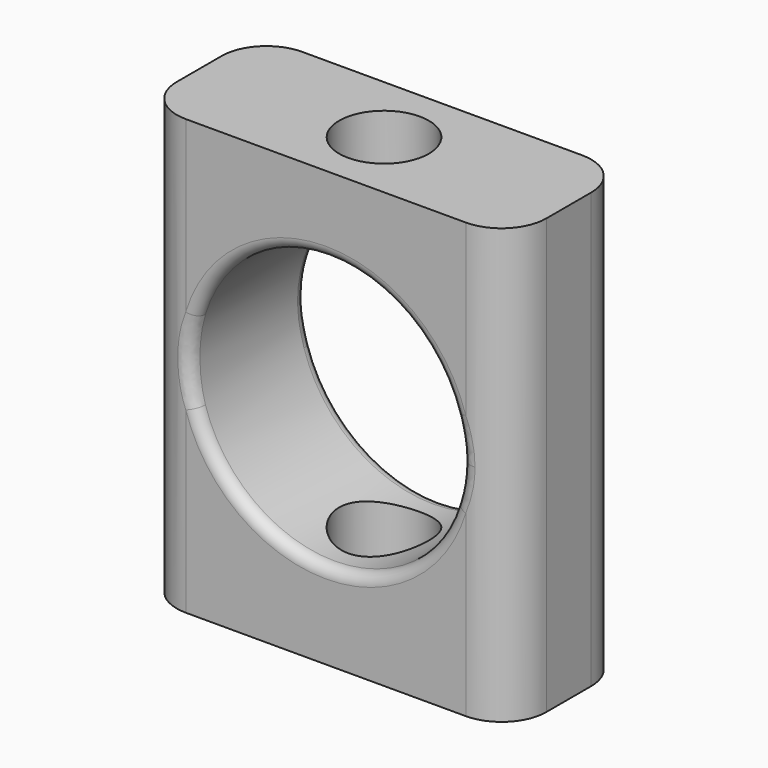
from build123d import *

# Parameters (mm, degrees)
F0_W          = 16.5
F0_H          = 6.5
F0_R          = 2
F1_DEPTH      = 19.4
F2_R          = 6.04
F3_DEPTH      = 25
F3_DEPTH_BACK = 25
F4_DEPTH      = 3
F5_R          = 2
F6_R          = 0.5


with BuildPart() as f1:
    # F0 (on Top) → F1 (new body)
    with BuildSketch(Plane.XY):
        Rectangle(F0_W, F0_H)
        Circle(F0_R, mode=Mode.SUBTRACT)
    extrude(amount=F1_DEPTH)

    # F2 (on face) → F3 (cut, two sides)
    with BuildSketch(Plane.XZ.offset(3.25)) as f3_sk:
        with Locations((0, 9.9)):
            Circle(F2_R)
    extrude(amount=-F3_DEPTH, mode=Mode.SUBTRACT)
    extrude(f3_sk.sketch, amount=-F3_DEPTH_BACK, mode=Mode.SUBTRACT)

    # F0 (on Top) → F4 (cut)
    with BuildSketch(Plane.XY):
        Rectangle(F0_W, F0_H)
        Circle(F0_R, mode=Mode.SUBTRACT)
    extrude(amount=-F4_DEPTH, mode=Mode.SUBTRACT)

    # F5
    f5_edges = [f1.edges().sort_by_distance(p)[0] for p in [
        (8.25, -3.25, 9.7),
        (-8.25, -3.25, 9.7),
        (-8.25, 3.25, 9.7),
        (8.25, 3.25, 9.7),
    ]]
    fillet(f5_edges, radius=F5_R)

    # F6
    f6_edges = [f1.edges().sort_by_distance(p)[0] for p in [
        (-6.04, -3.25, 9.9),
        (-6.04, 3.25, 9.9),
    ]]
    fillet(f6_edges, radius=F6_R)


solid = f1.part
